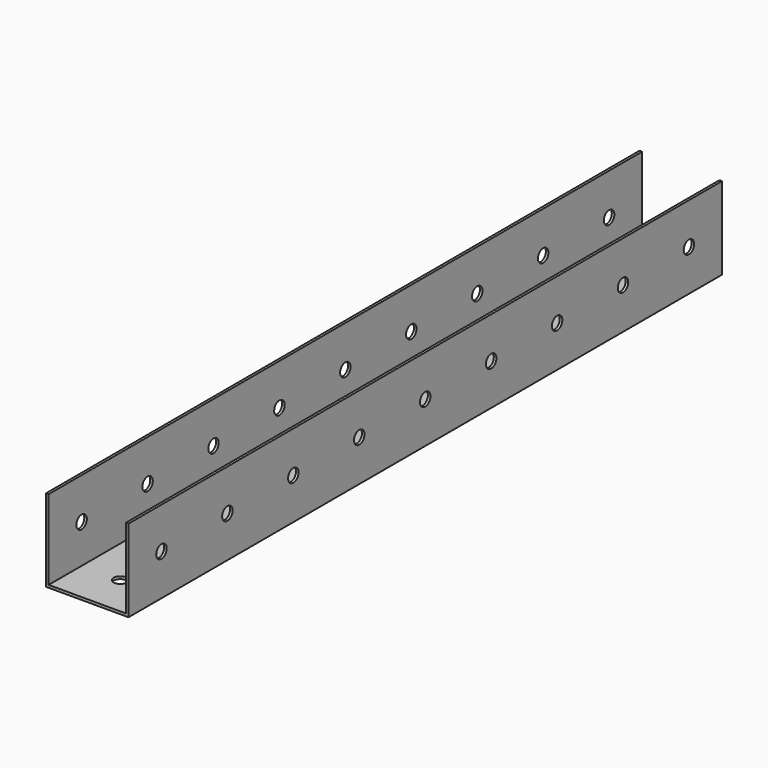
from build123d import *

# Parameters (mm, degrees)
F1_DEPTH = 288
F2_R     = 2.54
F3_DEPTH = 50.8
F4_R     = 2.54
F5_DEPTH = 25.4


with BuildPart() as f1:
    # F0 (on Front) → F1 (new body)
    with BuildSketch(Plane.XZ):
        Polygon((-15, 15.75), (-16, 15.75), (-16, -16.25), (16, -16.25), (16, 15.75), (15, 15.75), (15, -15.25), (-15, -15.25), align=None)
    extrude(amount=F1_DEPTH)

    # F2 (on face) → F3 (cut)
    with BuildSketch(Plane(origin=(-16, 0, 0), x_dir=(0, -1, 0), z_dir=(-1, 0, 0))):
        with Locations((16, -0.25)):
            Circle(F2_R)
        with Locations((48, -0.25)):
            Circle(F2_R)
        with Locations((80, -0.25)):
            Circle(F2_R)
        with Locations((112, -0.25)):
            Circle(F2_R)
        with Locations((144, -0.25)):
            Circle(F2_R)
        with Locations((176, -0.25)):
            Circle(F2_R)
        with Locations((208, -0.25)):
            Circle(F2_R)
        with Locations((240, -0.25)):
            Circle(F2_R)
        with Locations((272, -0.25)):
            Circle(F2_R)
    extrude(amount=-F3_DEPTH, mode=Mode.SUBTRACT)

    # F4 (on face) → F5 (cut)
    with BuildSketch(Plane(origin=(0, 0, -16.25), x_dir=(1, 0, 0), z_dir=(0, 0, -1))):
        with Locations((0, 272)):
            Circle(F4_R)
        with Locations((0, 240)):
            Circle(F4_R)
        with Locations((0, 208)):
            Circle(F4_R)
        with Locations((0, 176)):
            Circle(F4_R)
        with Locations((0, 144)):
            Circle(F4_R)
        with Locations((0, 112)):
            Circle(F4_R)
        with Locations((0, 80)):
            Circle(F4_R)
        with Locations((0, 48)):
            Circle(F4_R)
        with Locations((0, 16)):
            Circle(F4_R)
    extrude(amount=-F5_DEPTH, mode=Mode.SUBTRACT)


solid = f1.part
